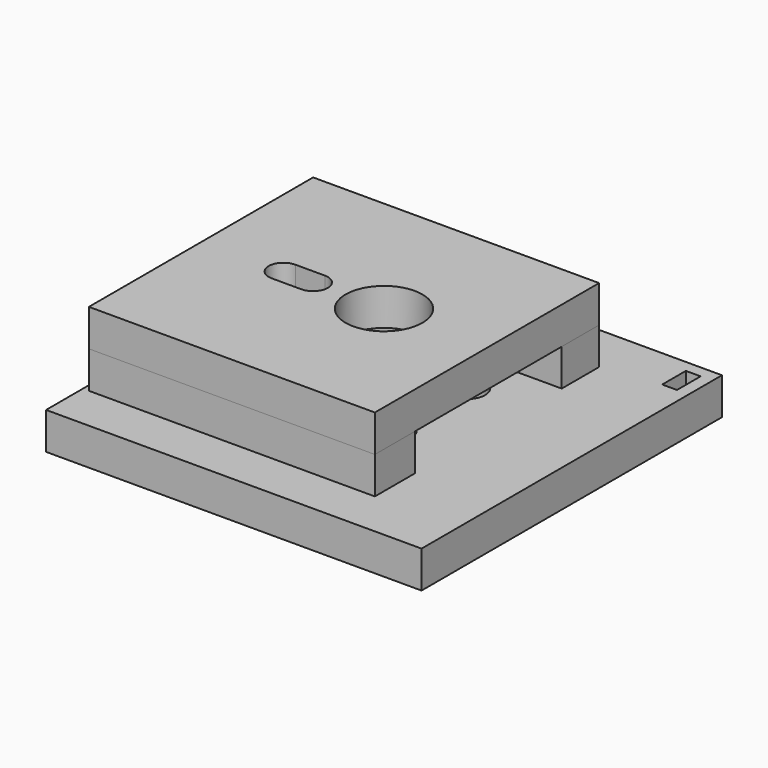
from build123d import *

# Parameters (mm, degrees)
F3_R      = 1.5
F3_W      = 2.5
F3_H      = 5
F3_R_2    = 6.5
F4_DEPTH  = 6.25
F5_R      = 3.1
F6_DEPTH  = 4
F7_R      = 9.075
F7_R_2    = 6.5
F8_DEPTH  = 2.3
F10_DEPTH = 6.25
F11_R     = 6.5
F12_DEPTH = 6.25
F14_DEPTH = 25


with BuildPart() as f4:
    # F3 (on Top) → F4 (new body)
    with BuildSketch(Plane.XY):
        Polygon((-27.25, 31.75), (-31.75, 31.75), (-31.75, -31.75), (31.75, -31.75), (31.75, 31.75), (27.25, 31.75), align=None)
        with Locations((-7.778175, -7.7781741861)):
            Circle(F3_R, mode=Mode.SUBTRACT)
        with Locations((7.7781741861, -7.778175)):
            Circle(F3_R, mode=Mode.SUBTRACT)
        with Locations((-7.7781741861, 7.778175)):
            Circle(F3_R, mode=Mode.SUBTRACT)
        with Locations((-28.5, 27.25)):
            Rectangle(F3_W, F3_H, mode=Mode.SUBTRACT)
        Circle(F3_R_2, mode=Mode.SUBTRACT)
        with Locations((7.778175, 7.7781741861)):
            Circle(F3_R, mode=Mode.SUBTRACT)
        with Locations((28.5, 27.25)):
            Rectangle(F3_W, F3_H, mode=Mode.SUBTRACT)
    extrude(amount=F4_DEPTH)

    # F5 (on face) → F6 (cut)
    with BuildSketch(Plane.XY.offset(6.25)):
        with Locations((-7.7781741861, 7.778175)):
            Circle(F5_R)
        with Locations((-7.778175, -7.7781741861)):
            Circle(F5_R)
        with Locations((7.7781741861, -7.778175)):
            Circle(F5_R)
        with Locations((7.778175, 7.7781741861)):
            Circle(F5_R)
    extrude(amount=-F6_DEPTH, mode=Mode.SUBTRACT)

    # F7 (on face) → F8 (cut)
    with BuildSketch(Plane(origin=(0, 0, 0), x_dir=(1, 0, 0), z_dir=(0, 0, -1))):
        Circle(F7_R)
        Circle(F7_R_2, mode=Mode.SUBTRACT)
    extrude(amount=-F8_DEPTH, mode=Mode.SUBTRACT)


with BuildPart() as f10:
    # F9 (on face) → F10 (new body)
    with BuildSketch(Plane.XY.offset(6.25)):
        with BuildLine():
            ThreePointArc((-10.5, 5.6568542495), (-8.2573593129, 4.2426406871), (-6.8431457505, 2))
            Line((-6.8431457505, 2), (0.5, 15.5502033014))
            Line((0.5, 15.5502033014), (-10.5, 15.5502033014))
            Line((-10.5, 15.5502033014), (-10.5, 5.6568542495))
        make_face()
        Polygon((-10.5, 15.5502033014), (0.5, 15.5502033014), (17.6161517501, 15.5502033014), (17.6161517501, 23.4547978675), (-30.75, 23.4547978675), (-30.75, 15.5502033014), align=None)
    extrude(amount=F10_DEPTH)


with BuildPart() as f10b:
    # F9 (on face) → F10, piece 2 (new body)
    with BuildSketch(Plane.XY.offset(6.25)):
        Polygon((-10.5, -15.4907594841), (-30.75, -15.4907594841), (-30.75, -23.9506369049), (17.6161517501, -23.9506369049), (17.6161517501, -15.4907594841), (0.5, -15.4907594841), align=None)
        with BuildLine():
            Line((-10.5, -5.6568542495), (-10.5, -15.4907594841))
            Line((-10.5, -15.4907594841), (0.5, -15.4907594841))
            Line((0.5, -15.4907594841), (-6.8431457505, -2))
            ThreePointArc((-6.8431457505, -2), (-8.2573593129, -4.2426406871), (-10.5, -5.6568542495))
        make_face()
    extrude(amount=F10_DEPTH)


with BuildPart() as f12:
    # F11 (on face) → F12 (new body)
    with BuildSketch(Plane.XY.offset(12.5)):
        with BuildLine():
            Line((17.6161517501, 23.4547978675), (-30.75, 23.4547978675))
            Line((-30.75, 23.4547978675), (-30.75, 15.5502033014))
            Line((-30.75, 15.5502033014), (-10.5, 15.5502033014))
            Line((-10.5, 15.5502033014), (-10.5, 5.6568542495))
            ThreePointArc((-10.5, 5.6568542495), (-8.2573593129, 4.2426406871), (-6.8431457505, 2))
            Line((-6.8431457505, 2), (0.5, 15.5502033014))
            Line((0.5, 15.5502033014), (17.6161517501, 15.5502033014))
            Line((17.6161517501, 15.5502033014), (17.6161517501, 23.4547978675))
        make_face()
        with BuildLine():
            Line((-10.5, 15.5502033014), (-30.75, 15.5502033014))
            Line((-30.75, 15.5502033014), (-30.75, -23.9506369049))
            Line((-30.75, -23.9506369049), (17.6161517501, -23.9506369049))
            Line((17.6161517501, -23.9506369049), (17.6161517501, 15.5502033014))
            Line((17.6161517501, 15.5502033014), (0.5, 15.5502033014))
            Line((0.5, 15.5502033014), (-6.8431457505, 2))
            ThreePointArc((-6.8431457505, 2), (-8.2573593129, 4.2426406871), (-10.5, 5.6568542495))
            Line((-10.5, 5.6568542495), (-10.5, 15.5502033014))
        make_face()
        Circle(F11_R, mode=Mode.SUBTRACT)
    extrude(amount=F12_DEPTH)


with BuildPart() as f14_tool:
    # F13 (on face) → F14 (new body)
    with BuildSketch(Plane.XY.offset(18.75)):
        with BuildLine():
            Line((-12, 2.5), (-17, 2.5))
            ThreePointArc((-17, 2.5), (-19.5, 0), (-17, -2.5))
            Line((-17, -2.5), (-12, -2.5))
            ThreePointArc((-12, -2.5), (-9.5, 0), (-12, 2.5))
        make_face()
    extrude(amount=-F14_DEPTH)


with BuildPart() as f4_1:
    add(f4.part)

    # F14: cut by f14_tool
    add(f14_tool.part, mode=Mode.SUBTRACT)


with BuildPart() as f12_1:
    add(f12.part)

    # F14: cut by f14_tool
    add(f14_tool.part, mode=Mode.SUBTRACT)


solid = Compound([f10.part, f10b.part, f4_1.part, f12_1.part])
